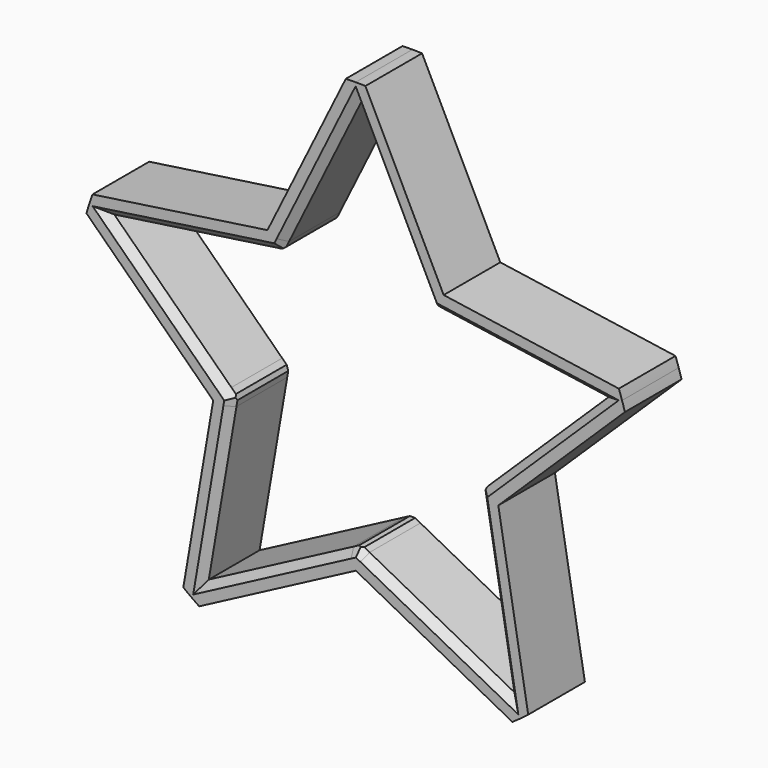
from build123d import *

# Parameters (mm, degrees)
F1_DEPTH = 48.35
F2_SIZE  = 5
F3_SIZE  = 2


with BuildPart() as f1:
    # F0 (on Front) → F1 (new body)
    with BuildSketch(Plane.XZ):
        Polygon((3.3454659382, 184.4213456143), (0, 191.2), (-3.4042833476, 184.3021685259), (-0.0588174093, 177.5235141402), align=None)
        with BuildLine():
            Line((3.3454659382, 184.4213456143), (6.6341131163, 191.0848726173))
            ThreePointArc((6.6341131163, 191.0848726173), (3.3175559963, 191.1712159877), (0, 191.2))
            Line((0, 191.2), (3.3454659382, 184.4213456143))
        make_face()
        with BuildLine():
            Line((-3.4042833476, 184.3021685259), (0, 191.2))
            ThreePointArc((0, 191.2), (-3.3754006651, 191.1702034062), (-6.7497492858, 191.0808229116))
            Line((-6.7497492858, 191.0808229116), (-3.4042833476, 184.3021685259))
        make_face()
        Polygon((-3.4042833476, 184.3021685259), (-6.7497492858, 191.0808229116), (-60.2314095212, 82.7151430913), (-53.0235747303, 83.7625027933), align=None)
        Polygon((-0.0588174093, 177.5235141402), (-3.4042833476, 184.3021685259), (-53.0235747303, 83.7625027933), (-56.1922701192, 77.3420246622), (-49.5013382427, 77.3420246622), align=None)
        Polygon((52.9688284065, 83.8734309614), (3.3454659382, 184.4213456143), (-0.0588174093, 177.5235141402), (49.383703424, 77.3420246622), (56.1922701192, 77.3420246622), align=None)
        Polygon((60.054246696, 82.8438594182), (6.6341131163, 191.0848726173), (3.3454659382, 184.4213456143), (52.9688284065, 83.8734309614), align=None)
        Polygon((52.0811544326, 71.876391938), (58.2598817772, 70.9785703011), (56.1922701192, 77.3420246622), (49.383703424, 77.3420246622), align=None)
        Polygon((63.2776884086, 76.312453119), (60.054246696, 82.8438594182), (52.9688284065, 83.8734309614), (56.1922701192, 77.3420246622), align=None)
        Polygon((174.2297969358, 60.1901680357), (179.6428745321, 65.4666146204), (60.054246696, 82.8438594182), (63.2776884086, 76.312453119), align=None)
        Polygon((168.8167193396, 54.9137214509), (174.2297969358, 60.1901680357), (63.2776884086, 76.312453119), (56.1922701192, 77.3420246622), (58.2598817772, 70.9785703011), align=None)
        Polygon((96.1366412096, -24.458033873), (176.4289283194, 53.8076027397), (168.8167193396, 54.9137214509), (88.8170401417, -23.0666929402), (90.9210029578, -29.5420246622), align=None)
        Polygon((97.3469751481, -31.5148222116), (183.7825669636, 52.7390564976), (176.4289283194, 53.8076027397), (96.1366412096, -24.458033873), align=None)
        Polygon((176.4289283194, 53.8076027397), (181.8420059156, 59.0840493245), (174.2297969358, 60.1901680357), (168.8167193396, 54.9137214509), align=None)
        with BuildLine():
            Line((174.2297969358, 60.1901680357), (181.8420059156, 59.0840493245))
            ThreePointArc((181.8420059156, 59.0840493245), (180.7706115026, 62.2850384682), (179.6428745321, 65.4666146204))
            Line((179.6428745321, 65.4666146204), (174.2297969358, 60.1901680357))
        make_face()
        with BuildLine():
            Line((176.4289283194, 53.8076027397), (183.7825669636, 52.7390564976))
            ThreePointArc((183.7825669636, 52.7390564976), (182.8398118758, 55.9199713271), (181.8420059156, 59.0840493245))
            Line((181.8420059156, 59.0840493245), (176.4289283194, 53.8076027397))
        make_face()
        Polygon((85.5079253616, -33.4748557433), (90.9210029578, -29.5420246622), (88.8170401417, -23.0666929402), (84.4524727268, -27.3210946961), align=None)
        Polygon((92.1313368964, -36.5988130009), (97.3469751481, -31.5148222116), (96.1366412096, -24.458033873), (90.9210029578, -29.5420246622), align=None)
        Polygon((104.3932878305, -143.5849678348), (111.0842197069, -147.1025988913), (92.1313368964, -36.5988130009), (90.9210029578, -29.5420246622), (85.5079253616, -33.4748557433), align=None)
        Polygon((111.0842197069, -147.1025988913), (117.7751515833, -150.6202299478), (97.3469751481, -31.5148222116), (92.1313368964, -36.5988130009), align=None)
        Polygon((105.6936083619, -151.166418268), (112.3845402383, -154.6840493245), (111.0842197069, -147.1025988913), (104.3932878305, -143.5849678348), align=None)
        with BuildLine():
            ThreePointArc((112.3845402383, -154.6840493245), (115.0977827408, -152.6759326422), (117.7751515833, -150.6202299478))
            Line((117.7751515833, -150.6202299478), (111.0842197069, -147.1025988913))
            Line((111.0842197069, -147.1025988913), (112.3845402383, -154.6840493245))
        make_face()
        with BuildLine():
            ThreePointArc((106.9497598069, -158.4903431672), (109.6836622396, -156.6107730576), (112.3845402383, -154.6840493245))
            Line((112.3845402383, -154.6840493245), (105.6936083619, -151.166418268))
            Line((105.6936083619, -151.166418268), (106.9497598069, -158.4903431672))
        make_face()
        Polygon((0.1094926475, -102.3210906944), (106.9497598069, -158.4903431672), (105.6936083619, -151.166418268), (6.4468834252, -98.9893271929), align=None)
        Polygon((6.4468834252, -98.9893271929), (105.6936083619, -151.166418268), (104.3932878305, -143.5849678348), (5.5082461637, -91.5980249074), (0, -95.6), align=None)
        Polygon((-6.3373907777, -98.9317635015), (0.1094926475, -102.3210906944), (6.4468834252, -98.9893271929), (0, -95.6), align=None)
        Polygon((0, -95.6), (5.5082461637, -91.5980249074), (0.1133441465, -88.7617570701), (-5.4130775962, -91.6671689189), align=None)
        Polygon((-104.298119263, -143.6541118464), (-105.5759735432, -151.1045739839), (-6.3373907777, -98.9317635015), (0, -95.6), (-5.4130775962, -91.6671689189), align=None)
        Polygon((-105.5759735432, -151.1045739839), (-106.8538278234, -158.5550361215), (0.1094926475, -102.3210906944), (-6.3373907777, -98.9317635015), align=None)
        Polygon((-111.1066859581, -147.2335871869), (-112.3845402383, -154.6840493245), (-105.5759735432, -151.1045739839), (-104.298119263, -143.6541118464), align=None)
        with BuildLine():
            ThreePointArc((-117.6839803143, -150.6914754635), (-115.0515806012, -152.7107520811), (-112.3845402383, -154.6840493245))
            Line((-112.3845402383, -154.6840493245), (-111.1066859581, -147.2335871869))
            Line((-111.1066859581, -147.2335871869), (-117.6839803143, -150.6914754635))
        make_face()
        with BuildLine():
            ThreePointArc((-112.3845402383, -154.6840493245), (-109.636269739, -156.6439541052), (-106.8538278234, -158.5550361215))
            Line((-106.8538278234, -158.5550361215), (-105.5759735432, -151.1045739839))
            Line((-105.5759735432, -151.1045739839), (-112.3845402383, -154.6840493245))
        make_face()
        Polygon((-92.1522481313, -36.7207348557), (-111.1066859581, -147.2335871869), (-104.298119263, -143.6541118464), (-85.4127567941, -33.5439997549), (-90.9210029578, -29.5420246622), align=None)
        Polygon((-97.2793049704, -31.7230896035), (-117.6839803143, -150.6914754635), (-111.1066859581, -147.2335871869), (-92.1522481313, -36.7207348557), align=None)
        Polygon((-90.9210029578, -29.5420246622), (-85.4127567941, -33.5439997549), (-84.3824221918, -27.5366880744), (-88.8533912998, -23.1785703011), align=None)
        Polygon((-96.048059797, -24.54437941), (-97.2793049704, -31.7230896035), (-92.1522481313, -36.7207348557), (-90.9210029578, -29.5420246622), align=None)
        Polygon((-168.8530704977, 54.80184409), (-176.3337597519, 53.7148363136), (-96.048059797, -24.54437941), (-90.9210029578, -29.5420246622), (-88.8533912998, -23.1785703011), align=None)
        Polygon((-176.3337597519, 53.7148363136), (-183.8144490062, 52.6278285372), (-97.2793049704, -31.7230896035), (-96.048059797, -24.54437941), align=None)
        Polygon((-174.3613166614, 60.1710571009), (-181.8420059156, 59.0840493245), (-176.3337597519, 53.7148363136), (-168.8530704977, 54.80184409), align=None)
        with BuildLine():
            ThreePointArc((-181.8420059156, 59.0840493245), (-182.8567238392, 55.864644873), (-183.8144490062, 52.6278285372))
            Line((-183.8144490062, 52.6278285372), (-176.3337597519, 53.7148363136))
            Line((-176.3337597519, 53.7148363136), (-181.8420059156, 59.0840493245))
        make_face()
        with BuildLine():
            Line((-174.3613166614, 60.1710571009), (-179.6824595725, 65.3578895158))
            ThreePointArc((-179.6824595725, 65.3578895158), (-180.7894495105, 62.230337824), (-181.8420059156, 59.0840493245))
            Line((-181.8420059156, 59.0840493245), (-174.3613166614, 60.1710571009))
        make_face()
        Polygon((-60.2314095212, 82.7151430913), (-179.6824595725, 65.3578895158), (-174.3613166614, 60.1710571009), (-63.4001049101, 76.2946649602), align=None)
        Polygon((-63.4001049101, 76.2946649602), (-174.3613166614, 60.1710571009), (-168.8530704977, 54.80184409), (-58.2962329353, 70.8666929402), (-56.1922701192, 77.3420246622), align=None)
        Polygon((-53.0235747303, 83.7625027933), (-60.2314095212, 82.7151430913), (-63.4001049101, 76.2946649602), (-56.1922701192, 77.3420246622), align=None)
        Polygon((-52.2645491141, 71.7431479025), (-49.5013382427, 77.3420246622), (-56.1922701192, 77.3420246622), (-58.2962329353, 70.8666929402), align=None)
    extrude(amount=F1_DEPTH)

    # F2
    f2_edges = [f1.edges().sort_by_distance(p)[0] for p in [
        (-126.617746, -48.35, 13.632578),
        (-94.340271, -48.35, -85.5954),
        (-52.092388, -48.35, -116.207934),
        (52.253316, -48.35, -116.173362),
        (94.42288, -48.35, -85.453031),
        (126.634596, -48.35, 13.796313),
        (110.448937, -48.35, 63.395057),
        (26.011169, -48.35, 124.699953),
        (-26.161683, -48.35, 124.633331),
        (-110.55881, -48.35, 63.272496),
    ]]
    chamfer(f2_edges, length=F2_SIZE)

    # F3
    f3_edges = [f1.edges().sort_by_distance(p)[0] for p in [
        (-84.382422, -21.675, -27.536688),
        (-52.264549, -21.675, 71.743148),
        (0.113344, -21.675, -88.761757),
        (84.452473, -21.675, -27.321095),
        (52.081154, -21.675, 71.876392),
    ]]
    chamfer(f3_edges, length=F3_SIZE)


solid = f1.part
